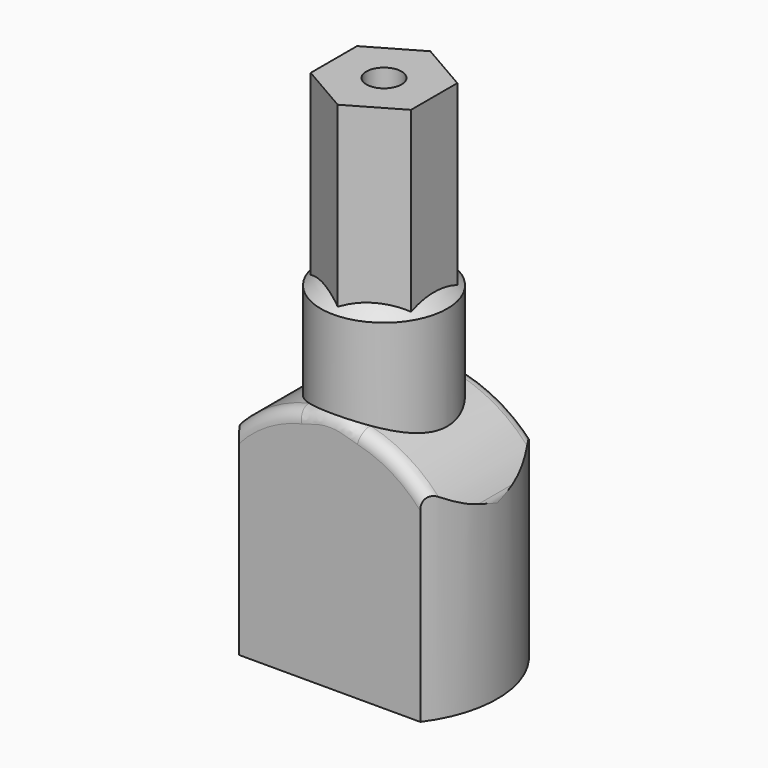
from build123d import *

# Parameters (mm, degrees)
PAD009_DEPTH         = 5.4
SKETCH014_R          = 5.03
PAD010_DEPTH         = 26
PAD011_DEPTH         = 40.5
SKETCH018_R          = 1.4
POCKET005_DEPTH      = 0.001
POCKET005_DEPTH_BACK = 40.501
FILLET003_R          = 1
SKETCH031_R          = 14.133118
SKETCH031_R_2        = 9
POCKET010_DEPTH      = 40.501


with BuildPart() as part:
    # Sketch013 → Pad009 (new body, symmetric)
    with BuildSketch(Plane.XZ):
        with BuildLine():
            Line((9, 14), (9, 0))
            Line((-9, 0), (9, 0))
            Line((-9, 0), (-9, 14))
            ThreePointArc((9, 14), (0, 19.047512), (-9, 14))
        make_face()
    extrude(amount=PAD009_DEPTH, both=True)

    # Sketch014 → Pad010 (join)
    with BuildSketch(Plane.XY):
        Circle(SKETCH014_R)
    extrude(amount=PAD010_DEPTH)

    # Sketch015 → Pad011 (join)
    with BuildSketch(Plane.XY):
        Polygon((0, 4.6), (-3.983717, 2.3), (-3.983717, -2.3), (0, -4.6), (3.983717, -2.3), (3.983717, 2.3), align=None)
    extrude(amount=PAD011_DEPTH)

    # Sketch017 → Revolution002 (revolve)
    with BuildSketch(Plane.YZ):
        with BuildLine():
            Line((0, 26), (5.03, 26))
            ThreePointArc((5.03, 26), (2.706515, 27.481661), (0, 28))
            Line((0, 26), (0, 28))
        make_face()
    revolve(axis=Axis((0, 0, 0), (0, 0, 1)))

    # Sketch018 → Pocket005 (cut, two sides)
    with BuildSketch(Plane.XY) as pocket005_sk:
        Circle(SKETCH018_R)
    extrude(amount=-POCKET005_DEPTH, mode=Mode.SUBTRACT)
    extrude(pocket005_sk.sketch, amount=POCKET005_DEPTH_BACK, mode=Mode.SUBTRACT)

    # Fillet003
    fillet003_edges = [part.edges().sort_by_distance(p)[0] for p in [
        (0, 5.4, 19.047512),
        (0, -5.4, 19.047512),
        (-9, 0, 14),
        (9, 0, 14),
    ]]
    fillet(fillet003_edges, radius=FILLET003_R)

    # Sketch031 → Pocket010 (cut, through all)
    with BuildSketch(Plane.XY):
        Circle(SKETCH031_R)
        Circle(SKETCH031_R_2, mode=Mode.SUBTRACT)
    extrude(amount=POCKET010_DEPTH, mode=Mode.SUBTRACT)


solid = part.part
